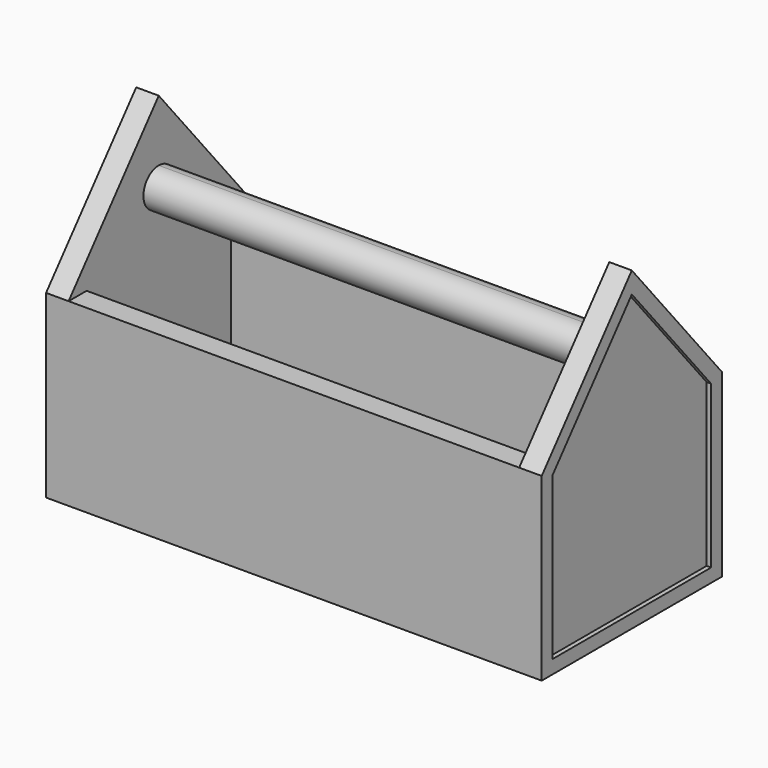
from build123d import *

# Parameters (mm, degrees)
F0_W      = 110
F0_H      = 50
F1_DEPTH  = 5
F2_W      = 5
F2_H      = 40
F3_DEPTH  = 35
F5_DEPTH  = 5
F7_DEPTH  = 5
F9_DEPTH  = 101
F11_DEPTH = 1
F13_DEPTH = 1


with BuildPart() as f1:
    # F0 (on Top) → F1 (new body)
    with BuildSketch(Plane.XY):
        with Locations((4.572784, -5.880122)):
            Rectangle(F0_W, F0_H)
    extrude(amount=F1_DEPTH)

    # F2 (on face) → F3 (join)
    with BuildSketch(Plane.XY.offset(5)):
        Polygon((59.572784, 19.119878), (-50.427216, 19.119878), (-50.427216, 14.119878), (-45.427216, 14.119878), (54.572784, 14.119878), (59.572784, 14.119878), align=None)
        with Locations((-47.927216, -5.880122)):
            Rectangle(F2_W, F2_H)
        with Locations((57.072784, -5.880122)):
            Rectangle(F2_W, F2_H)
        Polygon((-45.427216, -25.880122), (-50.427216, -25.880122), (-50.427216, -30.880122), (59.572784, -30.880122), (59.572784, -25.880122), (54.572784, -25.880122), align=None)
    extrude(amount=F3_DEPTH)

    # F4 (on face) → F5 (join)
    with BuildSketch(Plane(origin=(-50.427216, 0, 0), x_dir=(0, -1, 0), z_dir=(-1, 0, 0))):
        Polygon((30.880122, 40), (5.880122, 70), (5.880122, 40), align=None)
        Polygon((5.880122, 70), (-19.119878, 40), (5.880122, 40), align=None)
    extrude(amount=-F5_DEPTH)

    # F6 (on face) → F7 (join)
    with BuildSketch(Plane.YZ.offset(59.572784)):
        Polygon((-30.880122, 40), (-5.880122, 40), (-5.880122, 70), align=None)
        Polygon((-5.880122, 70), (-5.880122, 40), (19.119878, 40), align=None)
    extrude(amount=-F7_DEPTH)

    # F8 (on face) → F9 (join)
    with BuildSketch(Plane.YZ.offset(-45.427216)):
        with BuildLine():
            ThreePointArc((-1.630122, 52.12112), (-2.874919, 55.126323), (-5.880122, 56.37112))
            Line((-5.880122, 56.37112), (-5.880122, 47.87112))
            ThreePointArc((-5.880122, 47.87112), (-2.874919, 49.115916), (-1.630122, 52.12112))
        make_face()
        with BuildLine():
            Line((-5.880122, 47.87112), (-5.880122, 56.37112))
            ThreePointArc((-5.880122, 56.37112), (-10.130122, 52.12112), (-5.880122, 47.87112))
        make_face()
    extrude(amount=F9_DEPTH)

    # F10 (on face) → F11 (cut)
    with BuildSketch(Plane.YZ.offset(59.572784)):
        Polygon((-27.880122, 38.91385), (-27.880122, 3), (16.119878, 3), (16.119878, 38.91385), (-5.880122, 65.31385), align=None)
    extrude(amount=-F11_DEPTH, mode=Mode.SUBTRACT)

    # F12 (on face) → F13 (cut)
    with BuildSketch(Plane(origin=(-50.427216, 0, 0), x_dir=(0, -1, 0), z_dir=(-1, 0, 0))):
        Polygon((-16.119878, 38.91385), (-16.119878, 3), (27.880122, 3), (27.880122, 38.91385), (5.880122, 65.31385), align=None)
    extrude(amount=-F13_DEPTH, mode=Mode.SUBTRACT)


solid = f1.part
